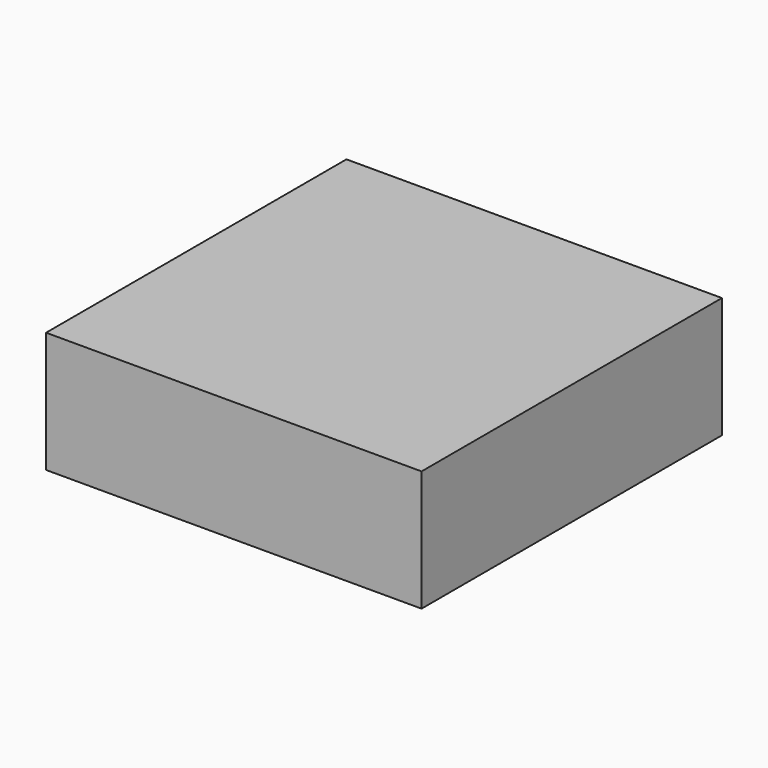
from build123d import *

# Parameters (mm, degrees)
F0_W     = 466
F0_H     = 466
F1_DEPTH = 75
F2_R     = 150
F3_DEPTH = 25


with BuildPart() as f1:
    # F0 (on Top) → F1 (new body, symmetric)
    with BuildSketch(Plane.XY):
        Rectangle(F0_W, F0_H)
    extrude(amount=F1_DEPTH, both=True)

    # F2 (on face) → F3 (join)
    with BuildSketch(Plane.XY.offset(75)):
        Circle(F2_R)
    extrude(amount=-F3_DEPTH)


solid = f1.part
